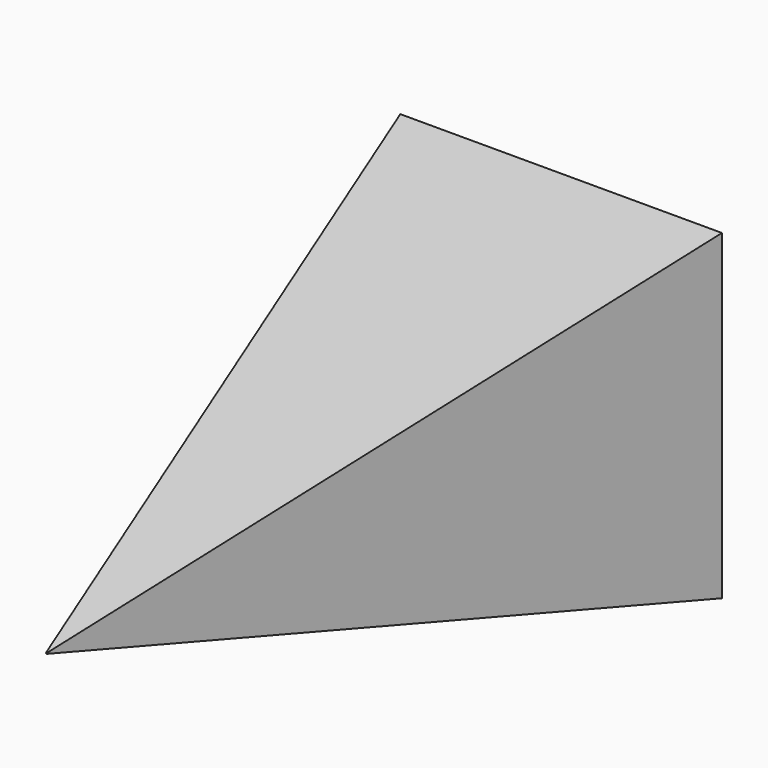
from build123d import *

# Parameters (mm, degrees)
F0_W     = 127
F0_H     = 127
F1_DEPTH = 254
F1_TAPER = 14


with BuildPart() as f1:
    # F0 (on Front) → F1 (new body)
    with BuildSketch(Plane.XZ):
        with Locations((1.1349083043, 1.887713559)):
            Rectangle(F0_W, F0_H)
    extrude(amount=F1_DEPTH, taper=F1_TAPER)


solid = f1.part
